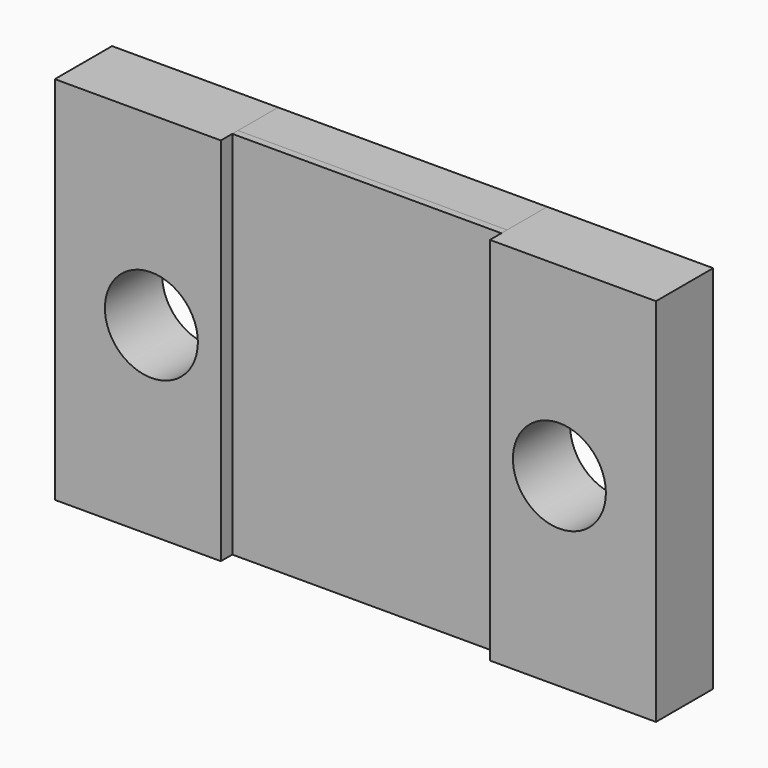
from build123d import *

# Parameters (mm, degrees)
F0_W     = 47.775754
F0_H     = 65.765324
F1_DEPTH = 10.16
F2_DEPTH = 8.89
F0_W_2   = 29.479064
F0_R     = 8.255
F0_W_3   = 29.479066
F3_DEPTH = 12.7


with BuildPart() as f1:
    # F0 (on Front) → F1 (new body)
    with BuildSketch(Plane.XZ):
        with Locations((-1e-06, 0)):
            Rectangle(F0_W, F0_H)
    extrude(amount=F1_DEPTH)


with BuildPart() as f2:
    # F0 (on Front) → F2 (new body)
    with BuildSketch(Plane.XZ):
        with Locations((-1e-06, 0)):
            Rectangle(F0_W, F0_H)
    extrude(amount=F2_DEPTH)


with BuildPart() as f3:
    # F0 (on Front) → F3 (new body)
    with BuildSketch(Plane.XZ):
        with Locations((-38.62741, 0)):
            Rectangle(F0_W_2, F0_H)
        with Locations((-36.221942, 0)):
            Circle(F0_R, mode=Mode.SUBTRACT)
        with Locations((38.627409, 0)):
            Rectangle(F0_W_3, F0_H)
        with Locations((36.221942, 0)):
            Circle(F0_R, mode=Mode.SUBTRACT)
    extrude(amount=F3_DEPTH)


solid = Compound([f1.part, f2.part, f3.part])
